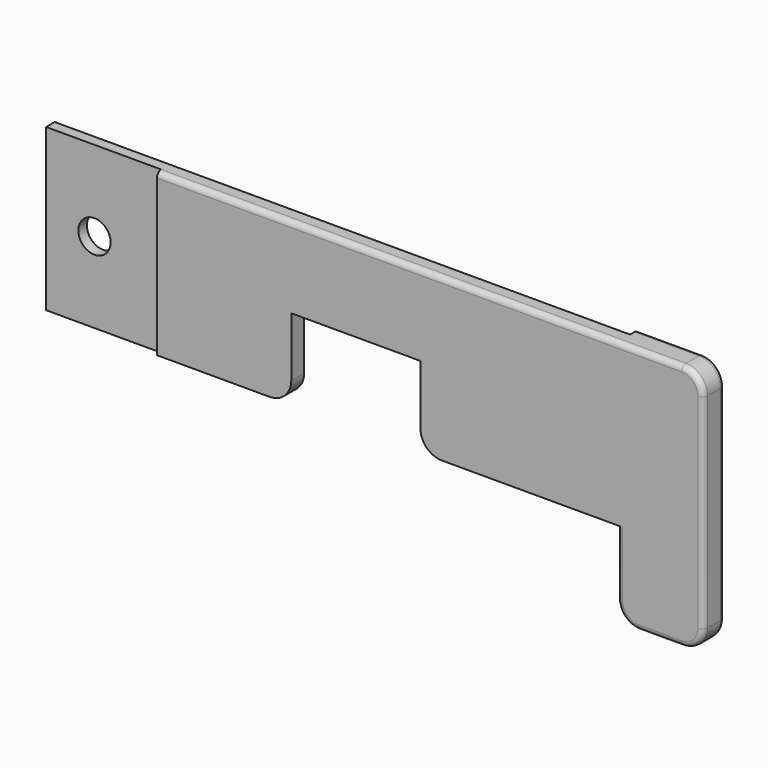
from build123d import *

# Parameters (mm, degrees)
F0_W      = 63.5
F0_H      = 15
F1_DEPTH  = 1.5
F2_W      = 10
F2_H      = 8
F3_DEPTH  = 1.5
F4_W      = 12
F4_H      = 7.5
F5_DEPTH  = 1.501
F6_R      = 1.5
F7_DEPTH  = 1.501
F8_W      = 10.7
F8_H      = 0.5
F9_DEPTH  = 15.001
F10_W     = 2
F10_H     = 1.5
F11_DEPTH = 23.001
F12_W     = 8
F12_H     = 23
F13_DEPTH = 1
F14_R     = 2
F15_R     = 0.5


with BuildPart() as f1:
    # F0 (on Front) → F1 (new body)
    with BuildSketch(Plane.XZ):
        with Locations((-6.75, 0)):
            Rectangle(F0_W, F0_H)
    extrude(amount=F1_DEPTH)

    # F2 (on face) → F3 (join, through all)
    with BuildSketch(Plane.XZ.offset(1.5)):
        with Locations((20, -11.5)):
            Rectangle(F2_W, F2_H)
    extrude(amount=-F3_DEPTH)

    # F4 (on face) → F5 (cut, through all)
    with BuildSketch(Plane.XZ.offset(1.5)):
        with Locations((-9.3, -3.75)):
            Rectangle(F4_W, F4_H)
    extrude(amount=-F5_DEPTH, mode=Mode.SUBTRACT)

    # F6 (on face) → F7 (cut, through all)
    with BuildSketch(Plane.XZ.offset(1.5)):
        with Locations((-34, 0)):
            Circle(F6_R)
    extrude(amount=-F7_DEPTH, mode=Mode.SUBTRACT)

    # F8 (on face) → F9 (cut, through all)
    with BuildSketch(Plane(origin=(0, 0, -7.5), x_dir=(1, 0, 0), z_dir=(0, 0, -1))):
        with Locations((-33.15, 1.25)):
            Rectangle(F8_W, F8_H)
    extrude(amount=-F9_DEPTH, mode=Mode.SUBTRACT)

    # F10 (on face) → F11 (cut, through all)
    with BuildSketch(Plane(origin=(0, 0, -15.5), x_dir=(1, 0, 0), z_dir=(0, 0, -1))):
        with Locations((24, 0.75)):
            Rectangle(F10_W, F10_H)
    extrude(amount=-F11_DEPTH, mode=Mode.SUBTRACT)

    # F12 (on face) → F13 (join)
    with BuildSketch(Plane(origin=(0, 0, 0), x_dir=(-1, 0, 0), z_dir=(0, 1, 0))):
        with Locations((-19, -4)):
            Rectangle(F12_W, F12_H)
    extrude(amount=F13_DEPTH)

    # F14
    f14_edges = [f1.edges().sort_by_distance(p)[0] for p in [
        (15, -0.25, -15.5),
        (23, -0.25, -15.5),
        (23, -0.25, 7.5),
        (-3.3, -0.75, -7.5),
        (-15.3, -0.75, -7.5),
    ]]
    fillet(f14_edges, radius=F14_R)

    # F15
    f15_edges = [f1.edges().sort_by_distance(p)[0] for p in [
        (23, 1, -4),
        (23, -1.5, -4),
    ]]
    fillet(f15_edges, radius=F15_R)


solid = f1.part
